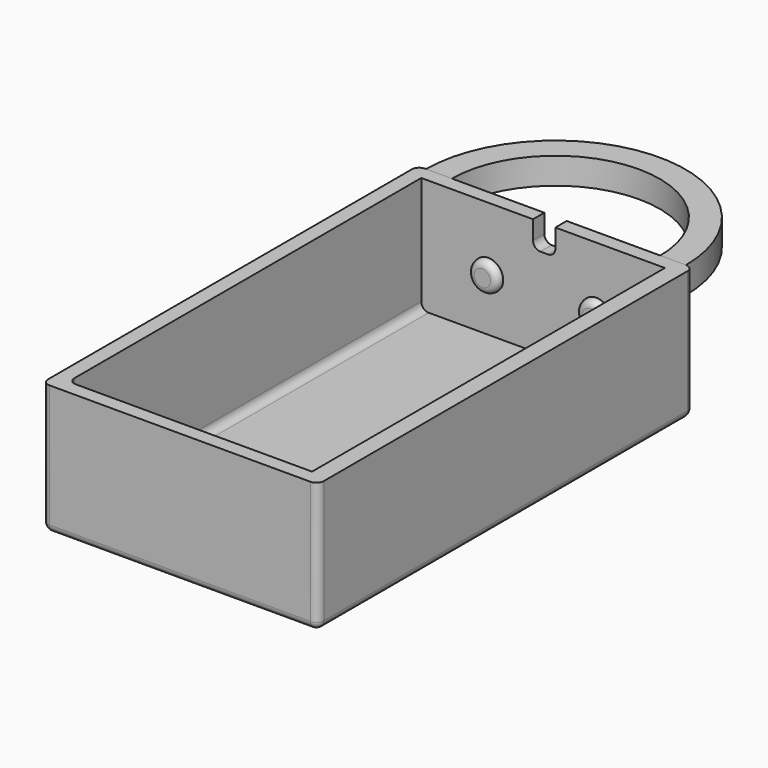
from build123d import *

# Parameters (mm, degrees)
SKETCH_W         = 37
SKETCH_H         = 63
PAD_DEPTH        = 17.5
SKETCH001_W      = 32.7
SKETCH001_H      = 59.2
POCKET_DEPTH     = 15.6
SKETCH002_R      = 2
PAD001_DEPTH     = 1
FILLET_R         = 0.9
FILLET001_R      = 0.9
SKETCH004_W      = 3
SKETCH004_H      = 13.390789
POCKET001_DEPTH  = 5
FILLET002_R      = 1
SKETCH005_W      = 3.455711
SKETCH005_H      = 3.543194
REVOLUTION_ANGLE = 180
FILLET003_R      = 1


with BuildPart() as part:
    # Sketch → Pad (new body)
    with BuildSketch(Plane.XY):
        with Locations((18.5, -31.5)):
            Rectangle(SKETCH_W, SKETCH_H)
    extrude(amount=PAD_DEPTH)

    # Sketch001 (on Face6 of Pad) → Pocket (cut)
    with BuildSketch(Plane.XY.offset(17.5)):
        with Locations((18.35, -31.5)):
            Rectangle(SKETCH001_W, SKETCH001_H)
    extrude(amount=-POCKET_DEPTH, mode=Mode.SUBTRACT)

    # Sketch002 (on Face10 of Pocket) → Pad001 (join)
    with BuildSketch(Plane.XZ.offset(1.9)):
        with Locations((11, 9)):
            Circle(SKETCH002_R)
        with Locations((25.5, 9)):
            Circle(SKETCH002_R)
    extrude(amount=PAD001_DEPTH)

    # Fillet
    fillet_edges = [part.edges().sort_by_distance(p)[0] for p in [
        (9, -2.9, 9),
    ]]
    fillet(fillet_edges, radius=FILLET_R)

    # Fillet001
    fillet001_edges = [part.edges().sort_by_distance(p)[0] for p in [
        (23.5, -2.9, 9),
    ]]
    fillet(fillet001_edges, radius=FILLET001_R)

    # Sketch004 (on Face11 of Fillet001) → Pocket001 (cut)
    with BuildSketch(Plane(origin=(0, 0, 0), x_dir=(-1, 0, 0), z_dir=(0, 1, 0))):
        with Locations((-18.5, 20.695394)):
            Rectangle(SKETCH004_W, SKETCH004_H)
    extrude(amount=-POCKET001_DEPTH, mode=Mode.SUBTRACT)

    # Fillet002
    fillet002_edges = [part.edges().sort_by_distance(p)[0] for p in [
        (18.5, 0, 0),
        (18.35, -61.1, 1.9),
        (13, -1.95, 9),
        (37, 0, 8.75),
        (9, -2, 9),
        (2, -31.5, 1.9),
        (34.7, -31.5, 1.9),
        (2, -61.1, 9.7),
        (37, -31.5, 0),
        (0, -31.5, 0),
        (18.5, -63, 0),
        (0, -63, 8.75),
        (37, -63, 8.75),
        (0, 0, 8.75),
    ]]
    fillet(fillet002_edges, radius=FILLET002_R)

    # Sketch005 (on Face15 of Fillet002) → Revolution (revolve)
    with BuildSketch(Plane(origin=(0, 0, 0), x_dir=(-1, 0, 0), z_dir=(0, 1, 0))):
        with Locations((-2.781869, 15.6677)):
            Rectangle(SKETCH005_W, SKETCH005_H)
    revolve(axis=Axis((18.5, 0, 22.777559), (0, 0, -1)), revolution_arc=REVOLUTION_ANGLE)

    # Fillet003
    fillet003_edges = [part.edges().sort_by_distance(p)[0] for p in [
        (17, -0.95, 14),
        (20, -0.95, 14),
    ]]
    fillet(fillet003_edges, radius=FILLET003_R)


solid = part.part
